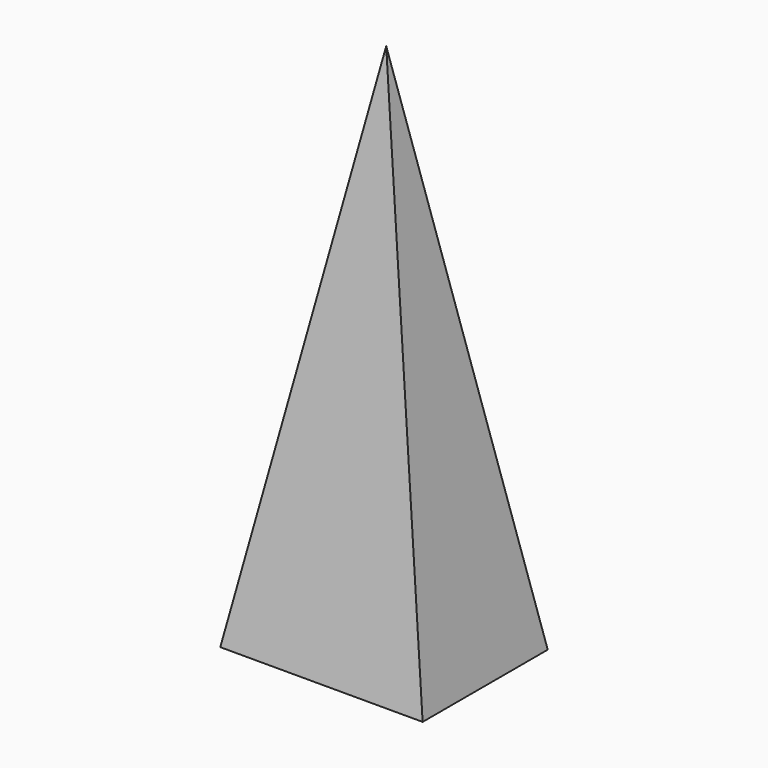
from build123d import *

# Parameters (mm, degrees)
F0_W = 37.868854
F0_H = 29.262295


with BuildPart() as f3:
    # F0 (on Top) → F3 section 0
    with BuildSketch(Plane.XY, mode=Mode.PRIVATE) as f3_s0:
        with Locations((-3.155738, 8.750001)):
            Rectangle(F0_W, F0_H)
    loft([f3_s0.sketch, Vertex(-1.983192, 7.801764, 100)])


solid = f3.part
